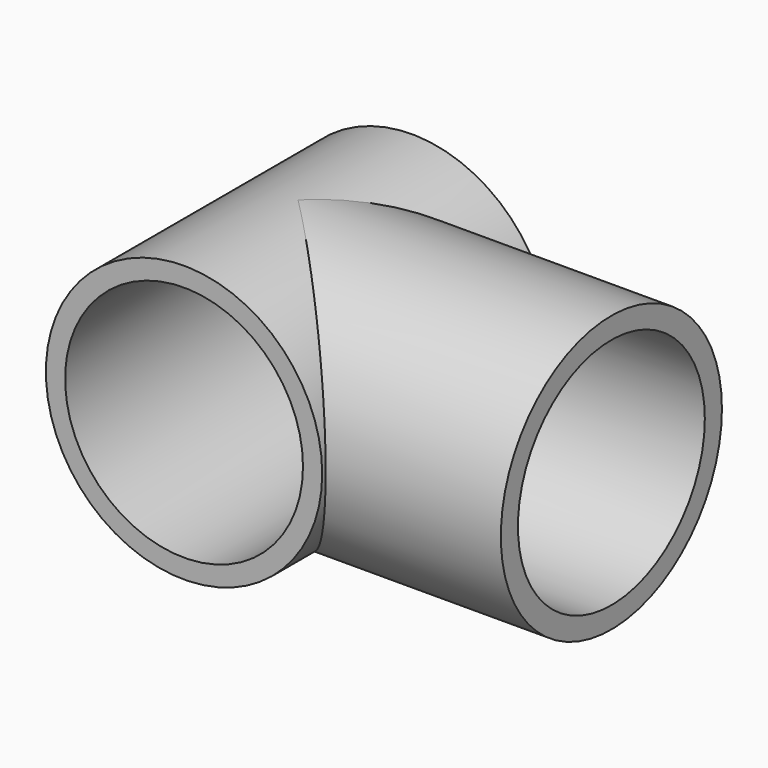
from build123d import *

# Parameters (mm, degrees)
SKETCH022_R     = 9.7
PAD007_DEPTH    = 10
SKETCH023_R     = 9.7
PAD008_DEPTH    = 22
SKETCH024_R     = 8.35
POCKET013_DEPTH = 23
SKETCH025_R     = 8.2
POCKET014_DEPTH = 12


with BuildPart() as part:
    # Sketch022 → Pad007 (new body, symmetric)
    with BuildSketch(Plane.XZ):
        Circle(SKETCH022_R)
    extrude(amount=PAD007_DEPTH, both=True)

    # Sketch023 → Pad008 (join)
    with BuildSketch(Plane.YZ):
        Circle(SKETCH023_R)
    extrude(amount=PAD008_DEPTH)

    # Sketch024 → Pocket013 (cut)
    with BuildSketch(Plane.XZ.offset(10)):
        Circle(SKETCH024_R)
    extrude(amount=-POCKET013_DEPTH, mode=Mode.SUBTRACT)

    # Sketch025 → Pocket014 (cut)
    with BuildSketch(Plane.YZ.offset(22)):
        Circle(SKETCH025_R)
    extrude(amount=-POCKET014_DEPTH, mode=Mode.SUBTRACT)


solid = part.part
